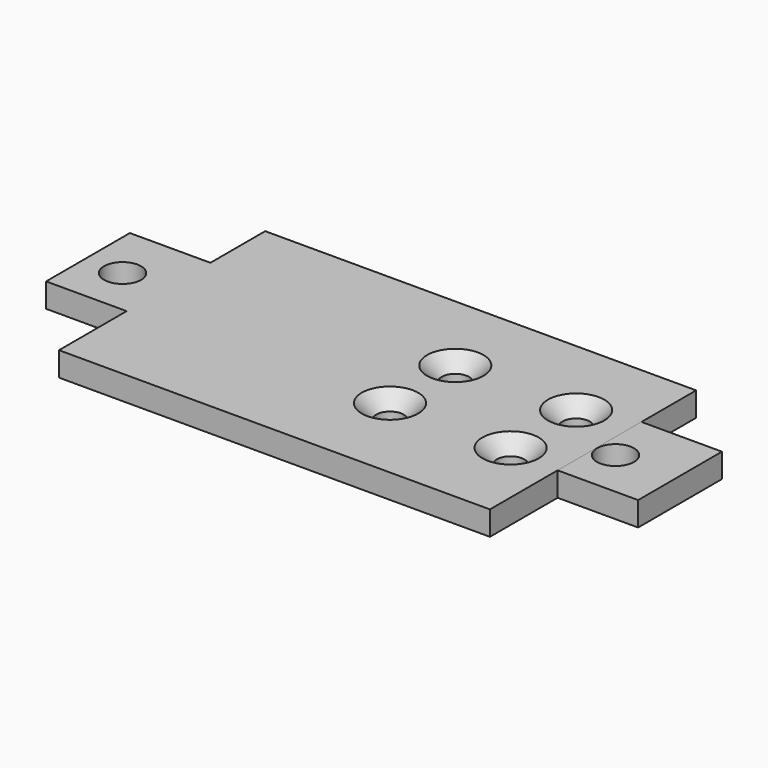
from build123d import *

# Parameters (mm, degrees)
PAD_DEPTH        = 3
SKETCH001_R      = 1.7
POCKET_DEPTH     = 3
SKETCH002_W      = 13
SKETCH002_H      = 3
PAD001_DEPTH     = 10
PAD002_DEPTH     = 10
SKETCH011_R      = 2.3
POCKET003_DEPTH  = 3
POCKET004_DEPTH  = 4
HOLE_D           = 1.75
HOLE_DEPTH       = 14
HOLE_CSINK_D     = 7
HOLE_CSINK_ANGLE = 90


with BuildPart() as part:
    # Sketch → Pad (new body)
    with BuildSketch(Plane.XY):
        Polygon((-26, 26.4999999928), (27.5, 26.4999999928), (27.49902347, -5.4999999923), (-26, -5.5000000072), align=None)
    extrude(amount=PAD_DEPTH)

    # Sketch001 (on Face6 of Pad) → Pocket (cut)
    with BuildSketch(Plane.XY.offset(3)):
        with Locations((6, 16)):
            Circle(SKETCH001_R)
        with Locations((21, 16)):
            Circle(SKETCH001_R)
        with Locations((6, 5.8643429572)):
            Circle(SKETCH001_R)
        with Locations((20.9999664256, 5.8326060428)):
            Circle(SKETCH001_R)
    extrude(amount=-POCKET_DEPTH, mode=Mode.SUBTRACT)

    # Sketch002 (on Face2 of Pocket) → Pad001 (join)
    with BuildSketch(Plane(origin=(-26, 0, 0), x_dir=(0, -1, 0), z_dir=(-1, 0, 0))):
        with Locations((-11.5, 1.5)):
            Rectangle(SKETCH002_W, SKETCH002_H)
    extrude(amount=PAD001_DEPTH)

    # Sketch003 (on Face3 of Pad001) → Pad002 (join)
    with BuildSketch(Plane(origin=(27.4991912855, -0.0008391808, 0), x_dir=(3.05166e-05, 0.9999999995, 0), z_dir=(0.9999999995, -3.05166e-05, 0))):
        Polygon((4.9999999997, -5.34717e-05), (18, 0.0098544685), (18, 3.0102239098), (4.9999999997, 3.0003159696), align=None)
    extrude(amount=PAD002_DEPTH)

    # Sketch011 (on Face10 of Pad002) → Pocket003 (cut)
    with BuildSketch(Plane(origin=(0, 0, 0), x_dir=(1, 0, 0), z_dir=(0, 0, -1))):
        with Locations((-31.3064256507, -11)):
            Circle(SKETCH011_R)
        with Locations((29.8905204819, -11)):
            Circle(SKETCH011_R)
    extrude(amount=-POCKET003_DEPTH, mode=Mode.SUBTRACT)

    # Sketch011 (on Face10 of Pad002) → Pocket004 (cut)
    with BuildSketch(Plane(origin=(0, 0, 0), x_dir=(1, 0, 0), z_dir=(0, 0, -1))):
        with Locations((-31.3064256507, -11)):
            Circle(SKETCH011_R)
        with Locations((29.8905204819, -11)):
            Circle(SKETCH011_R)
    extrude(amount=-POCKET004_DEPTH, mode=Mode.SUBTRACT)

    # Hole
    with Locations(Plane.XY.offset(3)):
        with Locations((6, 16), (21, 16), (6, 5.8643429572), (20.9999664256, 5.8326060428)):
            CounterSinkHole(HOLE_D / 2, HOLE_CSINK_D / 2, depth=HOLE_DEPTH, counter_sink_angle=HOLE_CSINK_ANGLE)


solid = part.part
